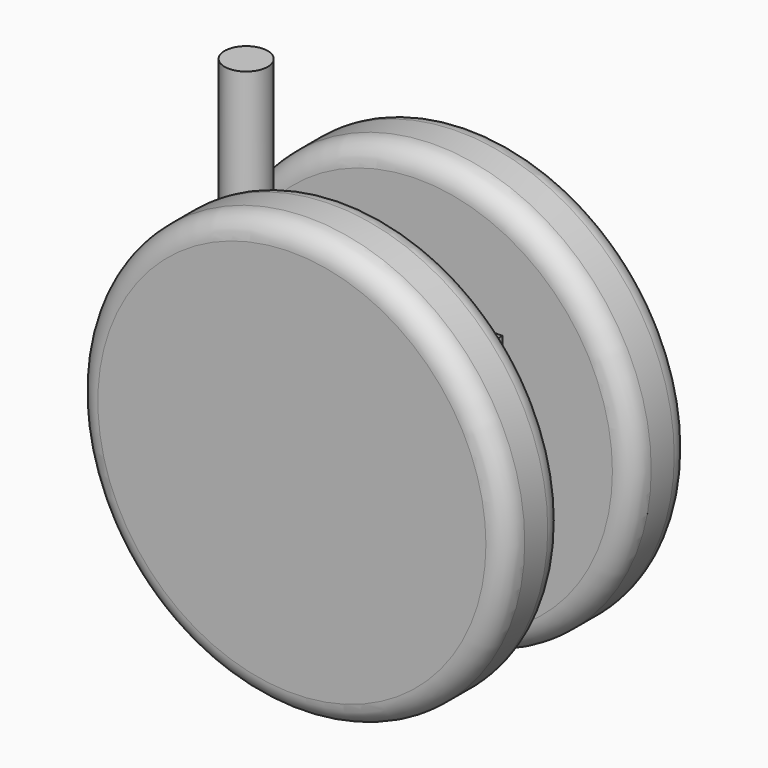
from build123d import *

# Parameters (mm, degrees)
F0_R     = 30
F1_DEPTH = 10
F2_R     = 3
F3_R     = 5
F4_DEPTH = 6
F6_W     = 36.4418011159
F6_H     = 26.4000613242
F6_R     = 5
F7_DEPTH = 4
F8_R     = 3
F9_DEPTH = 25


with BuildPart() as f1:
    # F0 (on Front) → F1 (new body)
    with BuildSketch(Plane.XZ):
        Circle(F0_R)
    extrude(amount=F1_DEPTH)

    # F2
    f2_edges = [f1.edges().sort_by_distance(p)[0] for p in [
        (30, -5, 0),
        (-30, 0, 0),
        (-30, -10, 0),
    ]]
    fillet(f2_edges, radius=F2_R)

    # F3 (on face) → F4 (join)
    with BuildSketch(Plane.XZ.offset(10)):
        Circle(F3_R)
    extrude(amount=F4_DEPTH)


with BuildPart() as f5_1:
    # F5: instance of F1
    add(f1.part.mirror(Plane.XZ.offset(16)))


with BuildPart() as f1_1:
    add(f1.part)

    add(f5_1.part)  # F7 merges F5_1
    # F6 (on face) → F7 (join, symmetric)
    with BuildSketch(Plane.XZ.offset(16)):
        with Locations((-4.939888604, -0.2429457381)):
            Rectangle(F6_W, F6_H)
        Circle(F6_R, mode=Mode.SUBTRACT)
    extrude(amount=F7_DEPTH, both=True)

    # F8 (on face) → F9 (join)
    with BuildSketch(Plane.XY.offset(12.957084924)):
        with Locations((-19.1607891619, -16)):
            Circle(F8_R)
    extrude(amount=F9_DEPTH)


solid = f1_1.part
